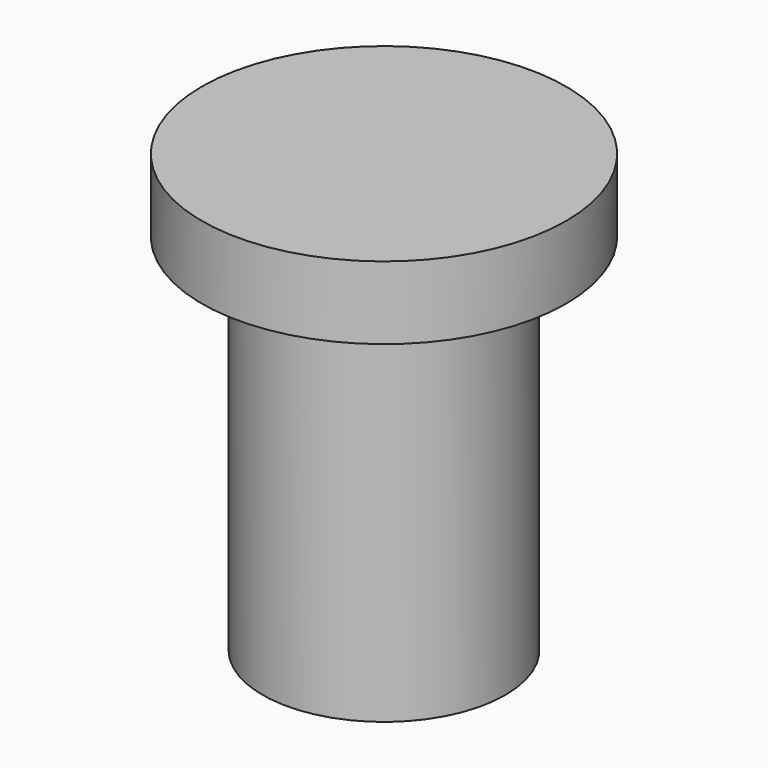
from build123d import *

# Parameters (mm, degrees)
F0_R     = 5
F1_DEPTH = 18
F2_R     = 7.5
F3_DEPTH = 3


with BuildPart() as f1:
    # F0 (on Top) → F1 (new body)
    with BuildSketch(Plane.XY):
        Circle(F0_R)
    extrude(amount=F1_DEPTH)

    # F2 (on face) → F3 (join)
    with BuildSketch(Plane.XY.offset(18)):
        Circle(F2_R)
    extrude(amount=-F3_DEPTH)


solid = f1.part
